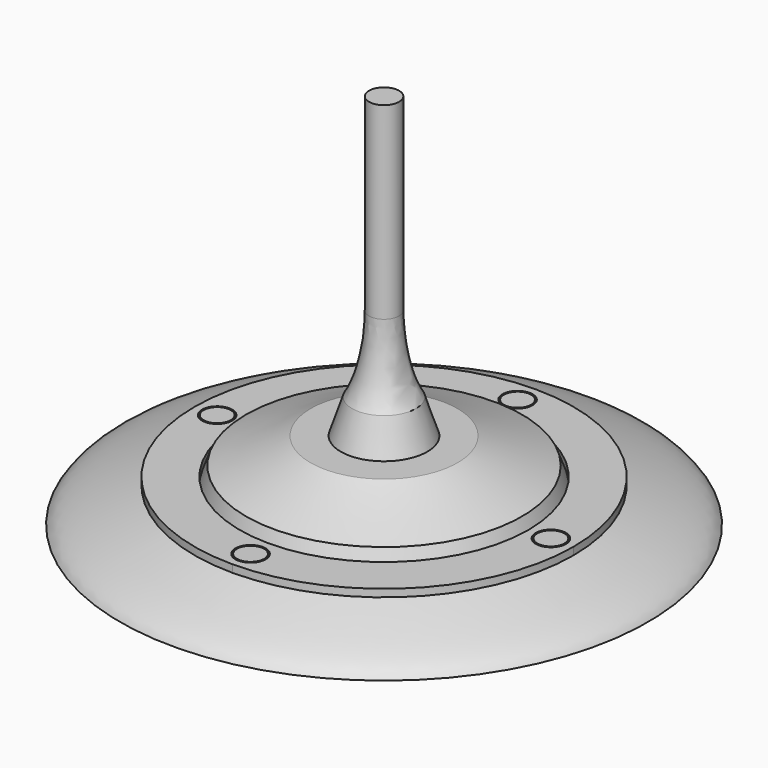
from build123d import *

# Parameters (mm, degrees)
F0_W     = 2
F0_H     = 25
F3_DEPTH = 1


with BuildPart() as f1:
    # F0 (on Front) → F1 (revolve)
    with BuildSketch(Plane.XZ):
        with Locations((-1, 37.5)):
            Rectangle(F0_W, F0_H)
        with BuildLine():
            Line((-35, 0), (0, 0))
            Line((0, 0), (0, 10.5737017095))
            Line((0, 10.5737017095), (0, 25))
            Line((0, 25), (-2, 25))
            add(Edge.make_bspline(
                [(-4.2389833406, 14.921545051), (-2.7213822888, 17.4617699874), (-2.1159480248, 21.2249717388), (-2, 25)],
                knots=[0.7986652912, 0.7986652912, 0.7986652912, 0.7986652912, 1, 1, 1, 1], degree=3))
            Line((-4.2389833406, 14.921545051), (-5.7391139716, 10.3714093566))
            Line((-5.7391139716, 10.3714093566), (-9.7391139716, 10.3714093566))
            add(Edge.make_bspline(
                [(-18.2995470762, 6.8967607804), (-15.6624755287, 7.8299118078), (-12.4076232251, 9.0389296488), (-9.7391139716, 10.3714093566)],
                knots=[0.4407953766, 0.4407953766, 0.4407953766, 0.4407953766, 0.631252617, 0.631252617, 0.631252617, 0.631252617], degree=3))
            Line((-18.2995470762, 6.8967607804), (-19.1268446445, 4.580328241))
            Line((-19.1268446445, 4.580328241), (-25.1268446445, 4.580328241))
            add(Edge.make_bspline(
                [(-35, 0), (-34.7500057807, 0.3745488164), (-33.9135771271, 1.6407259634), (-28.1410659842, 3.5760253325), (-25.1268446445, 4.580328241)],
                knots=[0, 0, 0, 0, 0.0812007646, 0.2725489504, 0.2725489504, 0.2725489504, 0.2725489504], degree=3))
        make_face()
    revolve(axis=Axis((0, 0, 25), (0, 0, 1)))

    # F2 (on face) → F3 (join)
    with BuildSketch(Plane.XY.offset(4.580328241)):
        with BuildLine():
            Line((0, -20.1268446445), (0, -19.1268446445))
            ThreePointArc((0, -19.1268446445), (-13.5247215509, -13.5247215509), (-19.1268446445, 0))
            Line((-19.1268446445, 0), (-20.1268446445, 0))
            ThreePointArc((-20.1268446445, 0), (-22.1268446445, -2), (-24.1268446445, 0))
            Line((-24.1268446445, 0), (-25.1268446445, 0))
            ThreePointArc((-25.1268446445, 0), (-17.767362238, -17.767362238), (0, -25.1268446445))
            Line((0, -25.1268446445), (0, -24.1268446445))
            ThreePointArc((0, -24.1268446445), (-2, -22.1268446445), (0, -20.1268446445))
        make_face()
        with BuildLine():
            ThreePointArc((19.1268446445, 0), (13.5247215509, -13.5247215509), (0, -19.1268446445))
            Line((0, -19.1268446445), (0, -20.1268446445))
            ThreePointArc((0, -20.1268446445), (1.4142135624, -20.7126310822), (2, -22.1268446445))
            ThreePointArc((2, -22.1268446445), (1.4142135624, -23.5410582069), (0, -24.1268446445))
            Line((0, -24.1268446445), (0, -25.1268446445))
            ThreePointArc((0, -25.1268446445), (17.767362238, -17.767362238), (25.1268446445, 0))
            Line((25.1268446445, 0), (24.1268446445, 0))
            ThreePointArc((24.1268446445, 0), (22.1268446445, -2), (20.1268446445, 0))
            Line((20.1268446445, 0), (19.1268446445, 0))
        make_face()
        with BuildLine():
            ThreePointArc((0, 19.1268446445), (13.5247215509, 13.5247215509), (19.1268446445, 0))
            Line((19.1268446445, 0), (20.1268446445, 0))
            ThreePointArc((20.1268446445, 0), (22.1268446445, 2), (24.1268446445, 0))
            Line((24.1268446445, 0), (25.1268446445, 0))
            ThreePointArc((25.1268446445, 0), (17.767362238, 17.767362238), (0, 25.1268446445))
            Line((0, 25.1268446445), (0, 24.1268446445))
            ThreePointArc((0, 24.1268446445), (1.4142135624, 23.5410582069), (2, 22.1268446445))
            ThreePointArc((2, 22.1268446445), (1.4142135624, 20.7126310822), (0, 20.1268446445))
            Line((0, 20.1268446445), (0, 19.1268446445))
        make_face()
        with BuildLine():
            Line((-20.1268446445, 0), (-19.1268446445, 0))
            ThreePointArc((-19.1268446445, 0), (-13.5247215509, 13.5247215509), (0, 19.1268446445))
            Line((0, 19.1268446445), (0, 20.1268446445))
            ThreePointArc((0, 20.1268446445), (-2, 22.1268446445), (0, 24.1268446445))
            Line((0, 24.1268446445), (0, 25.1268446445))
            ThreePointArc((0, 25.1268446445), (-17.767362238, 17.767362238), (-25.1268446445, 0))
            Line((-25.1268446445, 0), (-24.1268446445, 0))
            ThreePointArc((-24.1268446445, 0), (-22.1268446445, 2), (-20.1268446445, 0))
        make_face()
        with BuildLine():
            ThreePointArc((1.8, -22.1268446445), (1.2727922061, -20.8540524384), (0, -20.3268446445))
            Line((0, -20.3268446445), (0, -23.9268446445))
            ThreePointArc((0, -23.9268446445), (1.2727922061, -23.3996368507), (1.8, -22.1268446445))
        make_face()
        with BuildLine():
            Line((0, -23.9268446445), (0, -20.3268446445))
            ThreePointArc((0, -20.3268446445), (-1.8, -22.1268446445), (0, -23.9268446445))
        make_face()
        with BuildLine():
            ThreePointArc((-23.9268446445, 0), (-22.1268446445, -1.8), (-20.3268446445, 0))
            Line((-20.3268446445, 0), (-23.9268446445, 0))
        make_face()
        with BuildLine():
            Line((-23.9268446445, 0), (-20.3268446445, 0))
            ThreePointArc((-20.3268446445, 0), (-22.1268446445, 1.8), (-23.9268446445, 0))
        make_face()
        with BuildLine():
            ThreePointArc((23.9268446445, 0), (22.1268446445, 1.8), (20.3268446445, 0))
            Line((20.3268446445, 0), (23.9268446445, 0))
        make_face()
        with BuildLine():
            Line((23.9268446445, 0), (20.3268446445, 0))
            ThreePointArc((20.3268446445, 0), (22.1268446445, -1.8), (23.9268446445, 0))
        make_face()
        with BuildLine():
            ThreePointArc((0, 23.9268446445), (-1.8, 22.1268446445), (0, 20.3268446445))
            Line((0, 20.3268446445), (0, 23.9268446445))
        make_face()
        with BuildLine():
            Line((0, 23.9268446445), (0, 20.3268446445))
            ThreePointArc((0, 20.3268446445), (1.2727922061, 20.8540524384), (1.8, 22.1268446445))
            ThreePointArc((1.8, 22.1268446445), (1.2727922061, 23.3996368507), (0, 23.9268446445))
        make_face()
    extrude(amount=F3_DEPTH)


solid = f1.part
